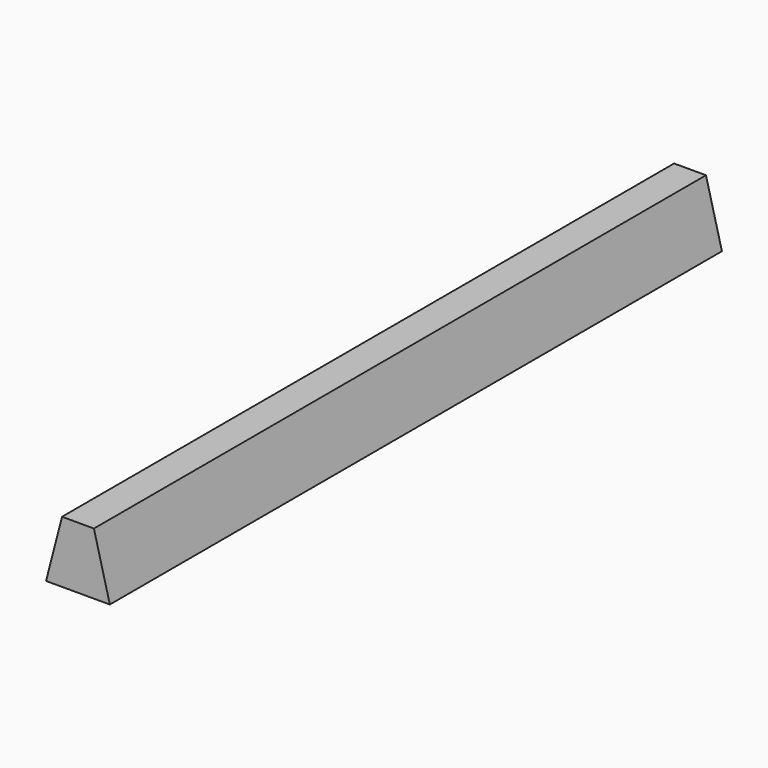
from build123d import *


with BuildPart() as f2:
    # F2: sweep along a path in F1
    with BuildLine(Plane.XY) as f2_path:
        Line((0, 0), (0, 2400))
    # F0 (on Front) → F2 (sweep)
    with BuildSketch(Plane.XZ):
        Polygon((-50, 193.6491673104), (-100, 0), (100, 0), (50, 193.6491673104), align=None)
    sweep(path=f2_path.line)


solid = f2.part
